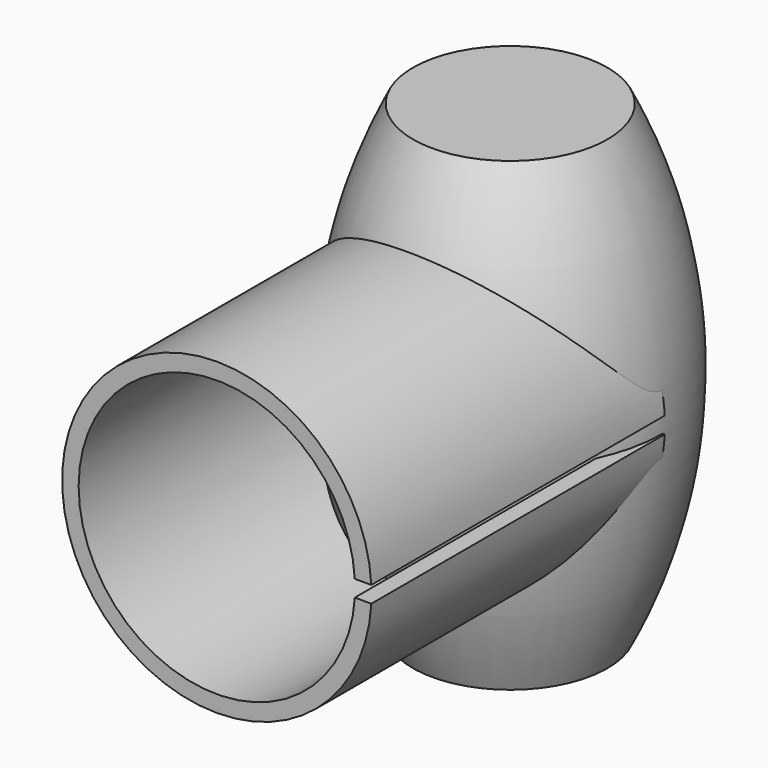
from build123d import *

# Parameters (mm, degrees)
F1_DEPTH = 44.45


with BuildPart() as f1:
    # F0 (on Front) → F1 (new body)
    with BuildSketch(Plane.XZ):
        with BuildLine():
            ThreePointArc((16.7201226072, -1), (-16.75, 0), (16.7201226072, 1))
            Line((16.7201226072, 1), (18.7233143434, 1))
            ThreePointArc((18.7233143434, 1), (-18.75, 0), (18.7233143434, -1))
            Line((18.7233143434, -1), (16.7201226072, -1))
        make_face()
    extrude(amount=F1_DEPTH)

    # F2 (on Right) → F3 (revolve)
    with BuildSketch(Plane.YZ):
        with BuildLine():
            Line((0, 28.2133857439), (0, 0))
            Line((0, 0), (0, -28.2133857439))
            Line((0, -28.2133857439), (11.7877177934, -28.2133857439))
            ThreePointArc((11.7877177934, -28.2133857439), (18.5, 0), (11.7877177934, 28.2133857439))
            Line((11.7877177934, 28.2133857439), (0, 28.2133857439))
        make_face()
    revolve(axis=Axis((0, 0, 14.106692872), (0, 0, 1)))


solid = f1.part
